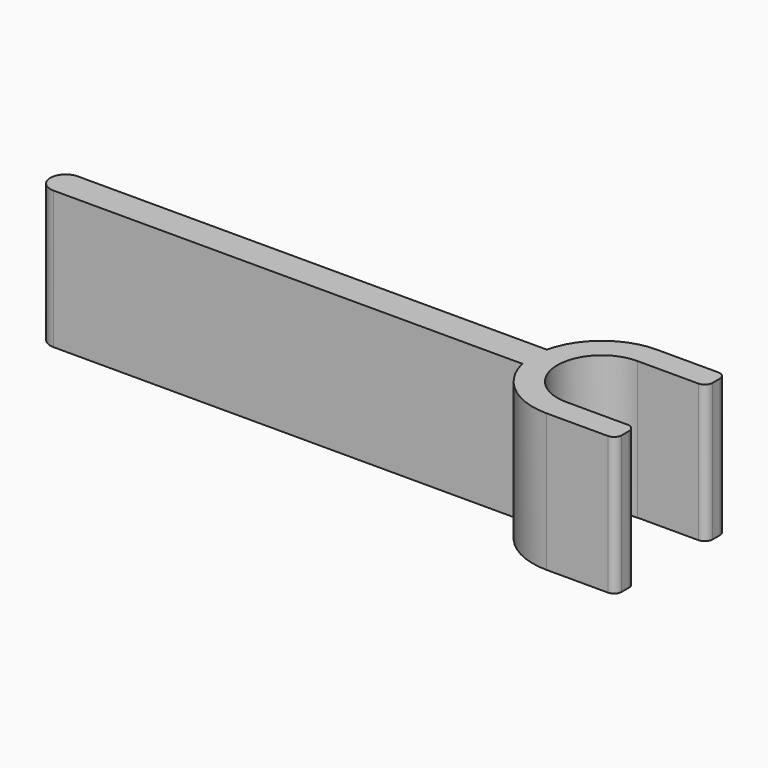
from build123d import *

# Parameters (mm, degrees)
F1_DEPTH = 9


with BuildPart() as f1:
    # F0 (on Top) → F1 (new body)
    with BuildSketch(Plane.XY):
        with BuildLine():
            ThreePointArc((0, -2.9), (-2.9, 0), (0, 2.9))
            Line((0, 2.9), (4, 2.9))
            ThreePointArc((4, 2.9), (4.353553, 3.046447), (4.5, 3.4))
            Line((4.5, 3.4), (4.5, 4))
            ThreePointArc((4.5, 4), (4.353553, 4.353553), (4, 4.5))
            Line((4, 4.5), (0, 4.5))
            ThreePointArc((0, 4.5), (-2.806243, 3.517812), (-4.387482, 1))
            Line((-4.387482, 1), (-35, 1))
            ThreePointArc((-35, 1), (-36, 0), (-35, -1))
            Line((-35, -1), (-4.387482, -1))
            ThreePointArc((-4.387482, -1), (-2.806243, -3.517812), (0, -4.5))
            Line((0, -4.5), (4, -4.5))
            ThreePointArc((4, -4.5), (4.353553, -4.353553), (4.5, -4))
            Line((4.5, -4), (4.5, -3.4))
            ThreePointArc((4.5, -3.4), (4.353553, -3.046447), (4, -2.9))
            Line((4, -2.9), (0, -2.9))
        make_face()
    extrude(amount=F1_DEPTH)


solid = f1.part
